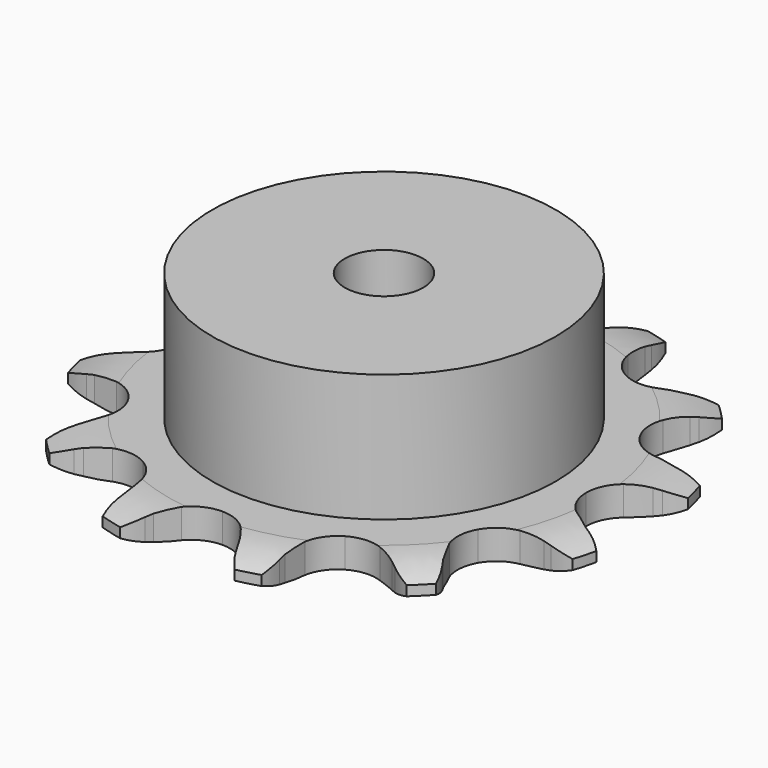
from build123d import *

# Parameters (mm, degrees)
PAD_DEPTH         = 3
SKETCH001_R       = 17.5
PAD001_DEPTH      = 16
SKETCH002_R       = 4
POCKET_DEPTH      = 0.001
POCKET_DEPTH_BACK = -16.001


with BuildPart() as part:
    # Sprocket → Pad (new body)
    with BuildSketch(Plane.XY):
        with BuildLine():
            ThreePointArc((-7.356995, 27.45668), (-5.788645, 26.262885), (-4.648226, 24.655305))
            Line((-4.648226, 24.655305), (-4.305235, 23.972353))
            ThreePointArc((-4.305235, 23.972353), (-3.716084, 22.951913), (-3.012451, 22.00677))
            ThreePointArc((-3.012451, 22.00677), (-1.661936, 20.970483), (0, 20.602041))
            ThreePointArc((0, 20.602041), (1.661936, 20.970483), (3.012451, 22.00677))
            ThreePointArc((3.012451, 22.00677), (3.716084, 22.951913), (4.305235, 23.972353))
            Line((4.305235, 23.972353), (4.648226, 24.655305))
            ThreePointArc((4.648226, 24.655305), (5.788645, 26.262885), (7.356995, 27.45668))
            ThreePointArc((7.356995, 27.45668), (8.118329, 25.638648), (8.30217, 23.676233))
            Line((8.30217, 23.676233), (8.257734, 22.913284))
            ThreePointArc((8.257734, 22.913284), (8.257734, 21.734982), (8.394526, 20.564647))
            ThreePointArc((8.394526, 20.564647), (9.045963, 18.991939), (10.30102, 17.841891))
            ThreePointArc((10.30102, 17.841891), (11.92452, 17.330003), (13.612244, 17.552196))
            Line((13.612244, 17.552196), (15.714619, 18.608049))
            ThreePointArc((15.714619, 18.608049), (16.029916, 18.82405), (16.353134, 19.028007))
            ThreePointArc((16.353134, 19.028007), (18.144556, 19.850004), (20.099685, 20.099685))
            ThreePointArc((20.099685, 20.099685), (19.850004, 18.144556), (19.028007, 16.353134))
            Line((19.028007, 16.353134), (18.608049, 15.714619))
            ThreePointArc((18.608049, 15.714619), (18.018898, 14.69418), (17.552196, 13.612244))
            ThreePointArc((17.552196, 13.612244), (17.330003, 11.92452), (17.841891, 10.30102))
            ThreePointArc((17.841891, 10.30102), (18.991939, 9.045963), (20.564647, 8.394526))
            Line((20.564647, 8.394526), (22.913284, 8.257734))
            ThreePointArc((22.913284, 8.257734), (23.294339, 8.287148), (23.676233, 8.30217))
            ThreePointArc((23.676233, 8.30217), (25.638648, 8.118329), (27.45668, 7.356995))
            ThreePointArc((27.45668, 7.356995), (26.262885, 5.788645), (24.655305, 4.648226))
            Line((24.655305, 4.648226), (23.972353, 4.305235))
            ThreePointArc((23.972353, 4.305235), (22.951913, 3.716084), (22.00677, 3.012451))
            ThreePointArc((22.00677, 3.012451), (20.970483, 1.661936), (20.602041, 0))
            ThreePointArc((20.602041, 0), (20.970483, -1.661936), (22.00677, -3.012451))
            Line((22.00677, -3.012451), (23.972353, -4.305235))
            ThreePointArc((23.972353, -4.305235), (24.317064, -4.470289), (24.655305, -4.648226))
            ThreePointArc((24.655305, -4.648226), (26.262885, -5.788645), (27.45668, -7.356995))
            ThreePointArc((27.45668, -7.356995), (25.638648, -8.118329), (23.676233, -8.30217))
            Line((23.676233, -8.30217), (22.913284, -8.257734))
            ThreePointArc((22.913284, -8.257734), (21.734982, -8.257734), (20.564647, -8.394526))
            ThreePointArc((20.564647, -8.394526), (18.991939, -9.045963), (17.841891, -10.30102))
            ThreePointArc((17.841891, -10.30102), (17.330003, -11.92452), (17.552196, -13.612244))
            Line((17.552196, -13.612244), (18.608049, -15.714619))
            ThreePointArc((18.608049, -15.714619), (18.82405, -16.029916), (19.028007, -16.353134))
            ThreePointArc((19.028007, -16.353134), (19.850004, -18.144556), (20.099685, -20.099685))
            ThreePointArc((20.099685, -20.099685), (18.144556, -19.850004), (16.353134, -19.028007))
            Line((16.353134, -19.028007), (15.714619, -18.608049))
            ThreePointArc((15.714619, -18.608049), (14.69418, -18.018898), (13.612244, -17.552196))
            ThreePointArc((13.612244, -17.552196), (11.92452, -17.330003), (10.30102, -17.841891))
            ThreePointArc((10.30102, -17.841891), (9.045963, -18.991939), (8.394526, -20.564647))
            Line((8.394526, -20.564647), (8.257734, -22.913284))
            ThreePointArc((8.257734, -22.913284), (8.287148, -23.294339), (8.30217, -23.676233))
            ThreePointArc((8.30217, -23.676233), (8.118329, -25.638648), (7.356995, -27.45668))
            ThreePointArc((7.356995, -27.45668), (5.788645, -26.262885), (4.648226, -24.655305))
            Line((4.648226, -24.655305), (4.305235, -23.972353))
            ThreePointArc((4.305235, -23.972353), (3.716084, -22.951913), (3.012451, -22.00677))
            ThreePointArc((3.012451, -22.00677), (1.661936, -20.970483), (0, -20.602041))
            ThreePointArc((0, -20.602041), (-1.661936, -20.970483), (-3.012451, -22.00677))
            Line((-3.012451, -22.00677), (-4.305235, -23.972353))
            ThreePointArc((-4.305235, -23.972353), (-4.470289, -24.317064), (-4.648226, -24.655305))
            ThreePointArc((-4.648226, -24.655305), (-5.788645, -26.262885), (-7.356995, -27.45668))
            ThreePointArc((-7.356995, -27.45668), (-8.118329, -25.638648), (-8.30217, -23.676233))
            Line((-8.30217, -23.676233), (-8.257734, -22.913284))
            ThreePointArc((-8.257734, -22.913284), (-8.257734, -21.734982), (-8.394526, -20.564647))
            ThreePointArc((-8.394526, -20.564647), (-9.045963, -18.991939), (-10.30102, -17.841891))
            ThreePointArc((-10.30102, -17.841891), (-11.92452, -17.330003), (-13.612244, -17.552196))
            Line((-13.612244, -17.552196), (-15.714619, -18.608049))
            ThreePointArc((-15.714619, -18.608049), (-16.029916, -18.82405), (-16.353134, -19.028007))
            ThreePointArc((-16.353134, -19.028007), (-18.144556, -19.850004), (-20.099685, -20.099685))
            ThreePointArc((-20.099685, -20.099685), (-19.850004, -18.144556), (-19.028007, -16.353134))
            Line((-19.028007, -16.353134), (-18.608049, -15.714619))
            ThreePointArc((-18.608049, -15.714619), (-18.018898, -14.69418), (-17.552196, -13.612244))
            ThreePointArc((-17.552196, -13.612244), (-17.330003, -11.92452), (-17.841891, -10.30102))
            ThreePointArc((-17.841891, -10.30102), (-18.991939, -9.045963), (-20.564647, -8.394526))
            Line((-20.564647, -8.394526), (-22.913284, -8.257734))
            ThreePointArc((-22.913284, -8.257734), (-23.294339, -8.287148), (-23.676233, -8.30217))
            ThreePointArc((-23.676233, -8.30217), (-25.638648, -8.118329), (-27.45668, -7.356995))
            ThreePointArc((-27.45668, -7.356995), (-26.262885, -5.788645), (-24.655305, -4.648226))
            Line((-24.655305, -4.648226), (-23.972353, -4.305235))
            ThreePointArc((-23.972353, -4.305235), (-22.951913, -3.716084), (-22.00677, -3.012451))
            ThreePointArc((-22.00677, -3.012451), (-20.970483, -1.661936), (-20.602041, 0))
            ThreePointArc((-20.602041, 0), (-20.970483, 1.661936), (-22.00677, 3.012451))
            Line((-22.00677, 3.012451), (-23.972353, 4.305235))
            ThreePointArc((-23.972353, 4.305235), (-24.317064, 4.470289), (-24.655305, 4.648226))
            ThreePointArc((-24.655305, 4.648226), (-26.262885, 5.788645), (-27.45668, 7.356995))
            ThreePointArc((-27.45668, 7.356995), (-25.638648, 8.118329), (-23.676233, 8.30217))
            Line((-23.676233, 8.30217), (-22.913284, 8.257734))
            ThreePointArc((-22.913284, 8.257734), (-21.734982, 8.257734), (-20.564647, 8.394526))
            ThreePointArc((-20.564647, 8.394526), (-18.991939, 9.045963), (-17.841891, 10.30102))
            ThreePointArc((-17.841891, 10.30102), (-17.330003, 11.92452), (-17.552196, 13.612244))
            Line((-17.552196, 13.612244), (-18.608049, 15.714619))
            ThreePointArc((-18.608049, 15.714619), (-18.82405, 16.029916), (-19.028007, 16.353134))
            ThreePointArc((-19.028007, 16.353134), (-19.850004, 18.144556), (-20.099685, 20.099685))
            ThreePointArc((-20.099685, 20.099685), (-18.144556, 19.850004), (-16.353134, 19.028007))
            Line((-16.353134, 19.028007), (-15.714619, 18.608049))
            ThreePointArc((-15.714619, 18.608049), (-14.69418, 18.018898), (-13.612244, 17.552196))
            ThreePointArc((-13.612244, 17.552196), (-11.92452, 17.330003), (-10.30102, 17.841891))
            ThreePointArc((-10.30102, 17.841891), (-9.045963, 18.991939), (-8.394526, 20.564647))
            Line((-8.394526, 20.564647), (-8.257734, 22.913284))
            ThreePointArc((-8.257734, 22.913284), (-8.287148, 23.294339), (-8.30217, 23.676233))
            ThreePointArc((-8.30217, 23.676233), (-8.118329, 25.638648), (-7.356995, 27.45668))
        make_face()
    extrude(amount=PAD_DEPTH)

    # Sketch → Groove (revolve, cut)
    with BuildSketch(Plane.XZ):
        with BuildLine():
            Line((21.95, 0), (26.95, 0))
            Line((31.95, 0), (26.95, 0))
            Line((31.95, 3), (31.95, 0))
            Line((26.95, 3), (31.95, 3))
            Line((21.95, 3), (26.95, 3))
            ThreePointArc((26.95, 2), (24.49951, 2.747549), (21.95, 3))
            Line((26.95, 1), (26.95, 2))
            ThreePointArc((21.95, 0), (24.49951, 0.252451), (26.95, 1))
        make_face()
    revolve(axis=Axis((0, 0, 0), (0, 0, 1)), mode=Mode.SUBTRACT)

    # Sketch001 → Pad001 (join)
    with BuildSketch(Plane.XY):
        Circle(SKETCH001_R)
    extrude(amount=PAD001_DEPTH)

    # Sketch002 → Pocket (cut, two sides)
    with BuildSketch(Plane.XY) as pocket_sk:
        Circle(SKETCH002_R)
    extrude(amount=-POCKET_DEPTH, mode=Mode.SUBTRACT)
    extrude(pocket_sk.sketch, amount=-POCKET_DEPTH_BACK, mode=Mode.SUBTRACT)


solid = part.part
